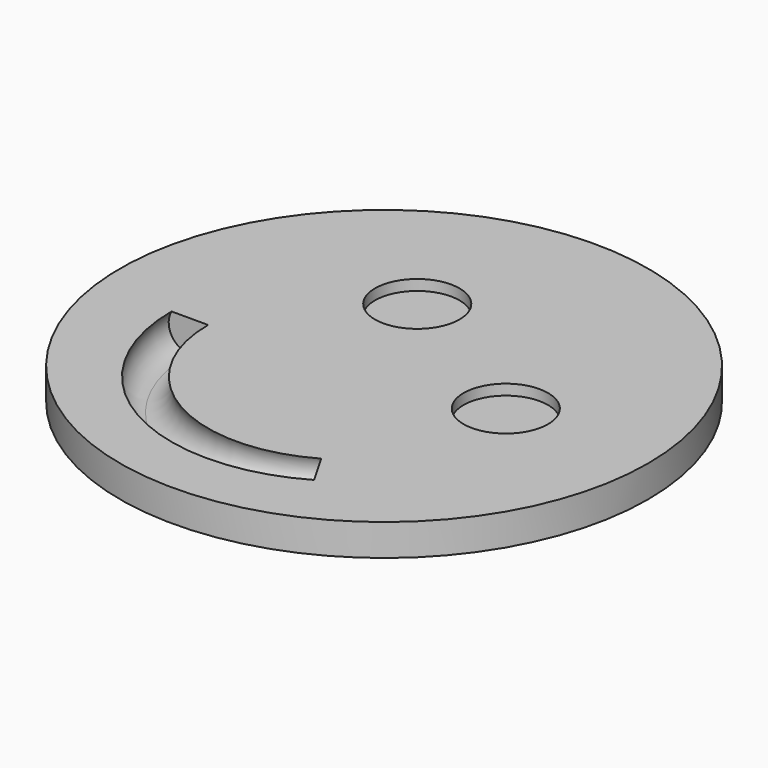
from build123d import *

# Parameters (mm, degrees)
CYLINDER001_R          = 4
CYLINDER001_DEPTH      = 2
CYLINDER002_R          = 4
CYLINDER002_DEPTH      = 2
FUSION_PLACEMENT_ANGLE = 30
TORUS_R                = 2
TORUS_ANGLE            = 120
CYLINDER_R             = 25
CYLINDER_DEPTH         = 3


with BuildPart() as ull1:
    # Cylinder001 → Cylinder001 (new body)
    with BuildSketch(Plane(origin=(9, 9, 2), x_dir=(1, 0, 0), z_dir=(0, 0, 1))):
        Circle(CYLINDER001_R)
    extrude(amount=CYLINDER001_DEPTH)


with BuildPart() as fusion:
    # Cylinder002 → Cylinder002 (new body)
    with BuildSketch(Plane(origin=(-9, 9, 2), x_dir=(1, 0, 0), z_dir=(0, 0, 1))):
        Circle(CYLINDER002_R)
    extrude(amount=CYLINDER002_DEPTH)

    # Fusion: union ull1
    add(ull1.part)


with BuildPart() as fusion_1:
    # Fusion placement: moved
    add(fusion.part.moved(Location((-1, -3, 0))).rotate(Axis((-1, -3, 0), (0, 0, -1)), FUSION_PLACEMENT_ANGLE))


with BuildPart() as torus:
    # Torus → Torus (revolve)
    with BuildSketch(Plane(origin=(-1, -3, 2), x_dir=(-1, 0, 0), z_dir=(0, 1, 0))):
        with Locations((15, 0)):
            Circle(TORUS_R)
    revolve(axis=Axis((-1, -3, 2), (0, 0, 1)), revolution_arc=TORUS_ANGLE)


with BuildPart() as cut001:
    # Cylinder → Cylinder (new body)
    with BuildSketch(Plane.XY):
        Circle(CYLINDER_R)
    extrude(amount=CYLINDER_DEPTH)

    # Cut: cut Torus
    add(torus.part, mode=Mode.SUBTRACT)

    # Cut001: cut Fusion
    add(fusion_1.part, mode=Mode.SUBTRACT)


solid = cut001.part
